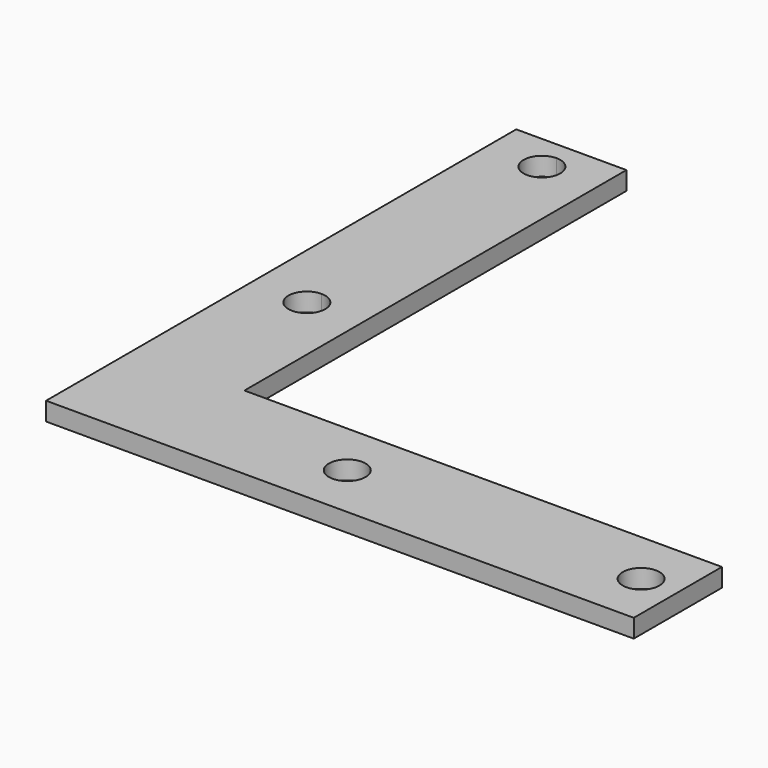
from build123d import *

# Parameters (mm, degrees)
F0_W     = 9.525
F0_H     = 9.525
F1_DEPTH = 3.175


with BuildPart() as f1:
    # F0 (on Top) → F1 (new body)
    with BuildSketch(Plane.XY):
        with BuildLine():
            Line((-31.75, 50.8), (-41.275, 50.8))
            Line((-41.275, 50.8), (-41.275, 47.625))
            ThreePointArc((-41.275, 47.625), (-39.0299359697, 46.6950640303), (-38.1, 44.45))
            ThreePointArc((-38.1, 44.45), (-39.0299359697, 42.2049359697), (-41.275, 41.275))
            Line((-41.275, 41.275), (-41.275, -3.175))
            ThreePointArc((-41.275, -3.175), (-39.0299359697, -4.1049359697), (-38.1, -6.35))
            ThreePointArc((-38.1, -6.35), (-39.0299359697, -8.5950640303), (-41.275, -9.525))
            Line((-41.275, -9.525), (-41.275, -31.75))
            Line((-41.275, -31.75), (-31.75, -31.75))
            Line((-31.75, -31.75), (-31.75, 50.8))
        make_face()
        with BuildLine():
            Line((-41.275, 50.8), (-50.8, 50.8))
            Line((-50.8, 50.8), (-50.8, -31.75))
            Line((-50.8, -31.75), (-41.275, -31.75))
            Line((-41.275, -31.75), (-41.275, -9.525))
            ThreePointArc((-41.275, -9.525), (-44.45, -6.35), (-41.275, -3.175))
            Line((-41.275, -3.175), (-41.275, 41.275))
            ThreePointArc((-41.275, 41.275), (-44.45, 44.45), (-41.275, 47.625))
            Line((-41.275, 47.625), (-41.275, 50.8))
        make_face()
        with Locations((-36.5125, -36.5125)):
            Rectangle(F0_W, F0_H)
        with Locations((-46.0375, -36.5125)):
            Rectangle(F0_W, F0_H)
        with Locations((-46.0375, -46.0375)):
            Rectangle(F0_W, F0_H)
        with Locations((-36.5125, -46.0375)):
            Rectangle(F0_W, F0_H)
        with BuildLine():
            Line((-9.525, -41.275), (-31.75, -41.275))
            Line((-31.75, -41.275), (-31.75, -50.8))
            Line((-31.75, -50.8), (50.8, -50.8))
            Line((50.8, -50.8), (50.8, -41.275))
            Line((50.8, -41.275), (47.625, -41.275))
            ThreePointArc((47.625, -41.275), (44.45, -44.45), (41.275, -41.275))
            Line((41.275, -41.275), (-3.175, -41.275))
            ThreePointArc((-3.175, -41.275), (-6.35, -44.45), (-9.525, -41.275))
        make_face()
        with BuildLine():
            Line((50.8, -31.75), (-31.75, -31.75))
            Line((-31.75, -31.75), (-31.75, -41.275))
            Line((-31.75, -41.275), (-9.525, -41.275))
            ThreePointArc((-9.525, -41.275), (-6.35, -38.1), (-3.175, -41.275))
            Line((-3.175, -41.275), (41.275, -41.275))
            ThreePointArc((41.275, -41.275), (44.45, -38.1), (47.625, -41.275))
            Line((47.625, -41.275), (50.8, -41.275))
            Line((50.8, -41.275), (50.8, -31.75))
        make_face()
    extrude(amount=F1_DEPTH)


solid = f1.part
